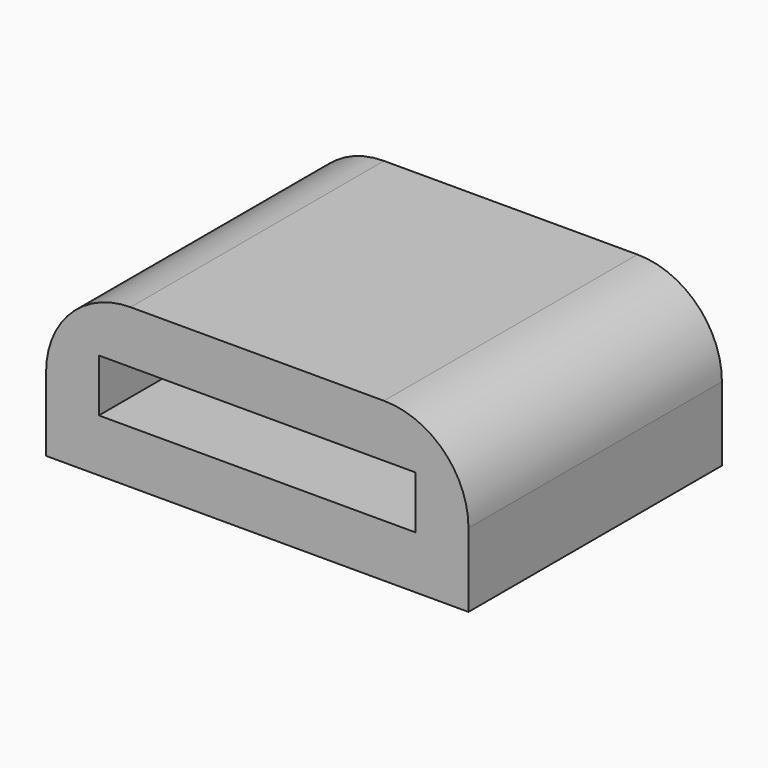
from build123d import *

# Parameters (mm, degrees)
F0_W     = 25.4
F0_H     = 9.524999
F0_W_2   = 19.05
F0_H_2   = 3.175
F1_DEPTH = 19.05
F2_R     = 5.08


with BuildPart() as f1:
    # F0 (on Front) → F1 (new body)
    with BuildSketch(Plane.XZ):
        with Locations((-31.983689, 17.403208)):
            Rectangle(F0_W, F0_H)
        with Locations((-31.983689, 17.403209)):
            Rectangle(F0_W_2, F0_H_2, mode=Mode.SUBTRACT)
    extrude(amount=F1_DEPTH)

    # F2
    f2_edges = [f1.edges().sort_by_distance(p)[0] for p in [
        (-44.683689, -9.525, 22.165708),
        (-19.283689, -9.525, 22.165708),
    ]]
    fillet(f2_edges, radius=F2_R)


solid = f1.part
